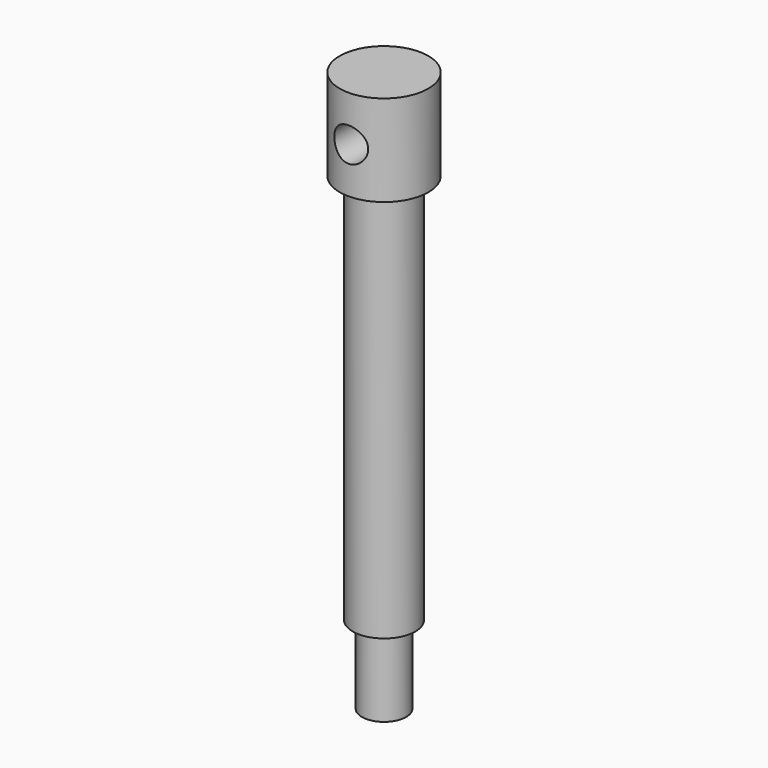
from build123d import *

# Parameters (mm, degrees)
SKETCH_R     = 17
PAD_DEPTH    = 35
SKETCH001_R  = 12
PAD001_DEPTH = 150
SKETCH002_R  = 8.5
PAD002_DEPTH = 30
SKETCH003_R  = 6.5
POCKET_DEPTH = 17


with BuildPart() as part:
    # Sketch → Pad (new body)
    with BuildSketch(Plane.XY):
        Circle(SKETCH_R)
    extrude(amount=PAD_DEPTH)

    # Sketch001 (on Face2 of Pad) → Pad001 (join)
    with BuildSketch(Plane(origin=(0, 0, 0), x_dir=(1, 0, 0), z_dir=(0, 0, -1))):
        Circle(SKETCH001_R)
    extrude(amount=PAD001_DEPTH)

    # Sketch002 (on Face5 of Pad001) → Pad002 (join)
    with BuildSketch(Plane(origin=(0, 0, -150), x_dir=(1, 0, 0), z_dir=(0, 0, -1))):
        Circle(SKETCH002_R)
    extrude(amount=PAD002_DEPTH)

    # Sketch003 (on DatumPlane) → Pocket (cut, symmetric)
    with BuildSketch(Plane(origin=(0, 0, 35), x_dir=(1, 0, 0), z_dir=(0, -1, 0))):
        with Locations((0, -17.5)):
            Circle(SKETCH003_R)
    extrude(amount=POCKET_DEPTH, both=True, mode=Mode.SUBTRACT)


solid = part.part
